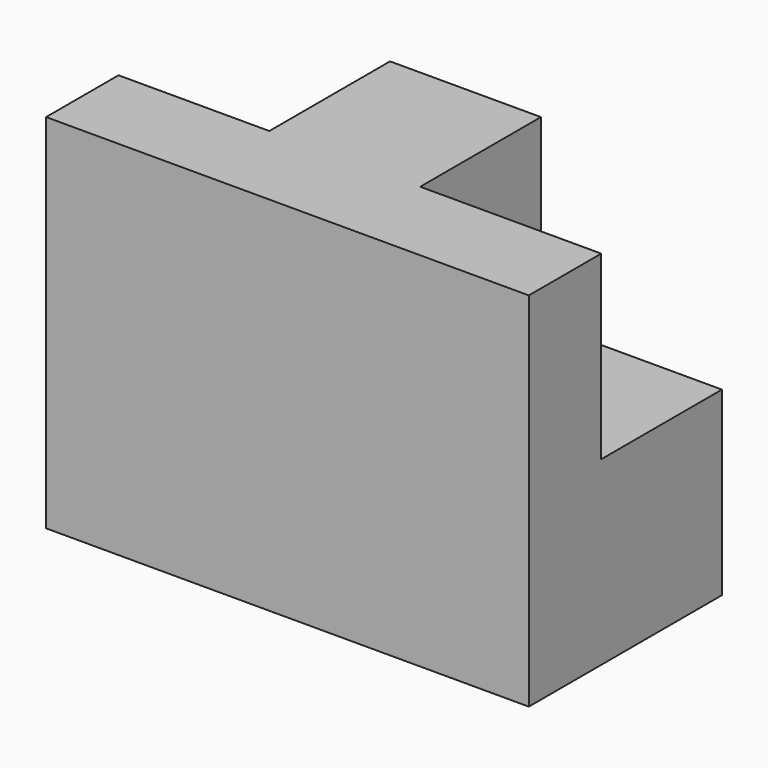
from build123d import *

# Parameters (mm, degrees)
F0_W     = 80
F0_H     = 60
F1_DEPTH = 15
F3_DEPTH = 25


with BuildPart() as f1:
    # F0 (on Front) → F1 (new body)
    with BuildSketch(Plane.XZ):
        with Locations((-40, 30)):
            Rectangle(F0_W, F0_H)
    extrude(amount=F1_DEPTH)

    # F2 (on Front) → F3 (join)
    with BuildSketch(Plane.XZ):
        Polygon((-55, 0), (0, 0), (0, 30), (-30, 30), (-30, 60), (-55, 60), (-55, 53.417352), align=None)
    extrude(amount=-F3_DEPTH)


solid = f1.part
